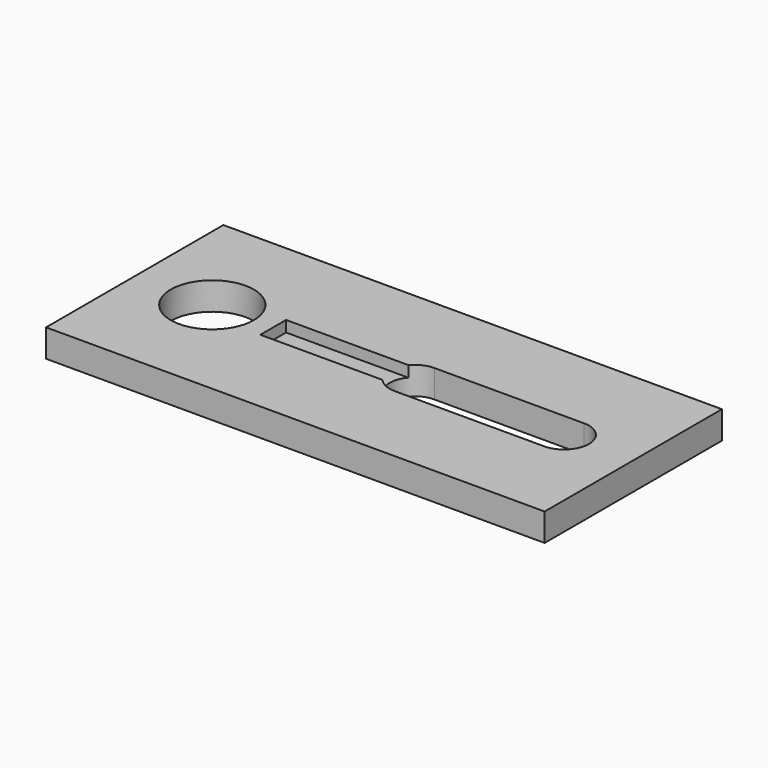
from build123d import *

# Parameters (mm, degrees)
F0_W     = 114.3
F0_H     = 50.8
F0_R     = 9.525
F1_DEPTH = 6.35
F2_W     = 34.29
F2_H     = 11.43
F3_DEPTH = 25.4
F4_W     = 53.34
F4_H     = 7.366
F5_DEPTH = 2.54


with BuildPart() as f1:
    # F0 (on Top) → F1 (new body)
    with BuildSketch(Plane.XY):
        with Locations((-57.15, 25.4)):
            Rectangle(F0_W, F0_H)
        with Locations((-96.52, 25.4)):
            Circle(F0_R, mode=Mode.SUBTRACT)
    extrude(amount=F1_DEPTH)

    # F2 (on face) → F3 (cut)
    with BuildSketch(Plane.XY.offset(6.35)):
        with Locations((-33.02, 25.4)):
            Rectangle(F2_W, F2_H)
        with BuildLine():
            Line((-50.165, 19.685), (-50.165, 31.115))
            ThreePointArc((-50.165, 31.115), (-55.88, 25.4), (-50.165, 19.685))
        make_face()
        with BuildLine():
            ThreePointArc((-15.875, 19.685), (-10.16, 25.4), (-15.875, 31.115))
            Line((-15.875, 31.115), (-15.875, 19.685))
        make_face()
    extrude(amount=-F3_DEPTH, mode=Mode.SUBTRACT)

    # F4 (on face) → F5 (cut)
    with BuildSketch(Plane.XY.offset(6.35)):
        with Locations((-55.88, 25.4)):
            Rectangle(F4_W, F4_H)
    extrude(amount=-F5_DEPTH, mode=Mode.SUBTRACT)


solid = f1.part
